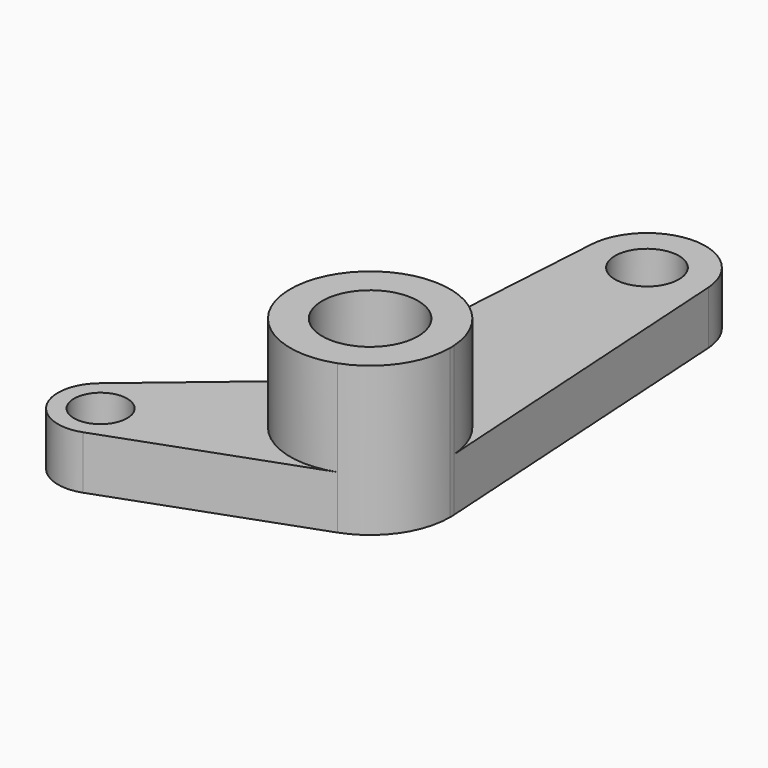
from build123d import *

# Parameters (mm, degrees)
F0_R     = 9
F1_DEPTH = 28
F0_R_2   = 5
F0_R_3   = 6
F2_DEPTH = 10


with BuildPart() as f1:
    # F0 (on Top) → F1 (new body)
    with BuildSketch(Plane.XY):
        with BuildLine():
            ThreePointArc((5.110947, -14.102419), (12.281372, -8.612079), (15, 0))
            ThreePointArc((15, 0), (14.992891, 0.461757), (14.971571, 0.923077))
            ThreePointArc((14.971571, 0.923077), (-12.540664, 8.22993), (5.110947, -14.102419))
        make_face()
        Circle(F0_R, mode=Mode.SUBTRACT)
    extrude(amount=F1_DEPTH)

    # F0 (on Top) → F2 (join)
    with BuildSketch(Plane.XY):
        with BuildLine():
            ThreePointArc((5.110947, -14.102419), (12.281372, -8.612079), (15, 0))
            ThreePointArc((15, 0), (14.992891, 0.461757), (14.971571, 0.923077))
            ThreePointArc((14.971571, 0.923077), (-12.540664, 8.22993), (5.110947, -14.102419))
        make_face()
        Circle(F0_R, mode=Mode.SUBTRACT)
        with BuildLine():
            ThreePointArc((5.110947, -14.102419), (-12.540664, 8.22993), (14.971571, 0.923077))
            Line((14.971571, 0.923077), (10.979152, 65.676923))
            ThreePointArc((10.979152, 65.676923), (0, 76), (-10.979152, 65.676923))
            Line((-10.979152, 65.676923), (-14.048582, 15.893218))
            ThreePointArc((-14.048582, 15.893218), (-16.147129, 8.129895), (-21.133903, 1.820762))
            Line((-21.133903, 1.820762), (-39.791725, -13.87871))
            ThreePointArc((-39.791725, -13.87871), (-41.569219, -24), (-31.915178, -27.52129))
            Line((-31.915178, -27.52129), (5.110947, -14.102419))
        make_face()
        with Locations((-34.641016, -20)):
            Circle(F0_R_2, mode=Mode.SUBTRACT)
        with Locations((0, 65)):
            Circle(F0_R_3, mode=Mode.SUBTRACT)
    extrude(amount=F2_DEPTH)


solid = f1.part
